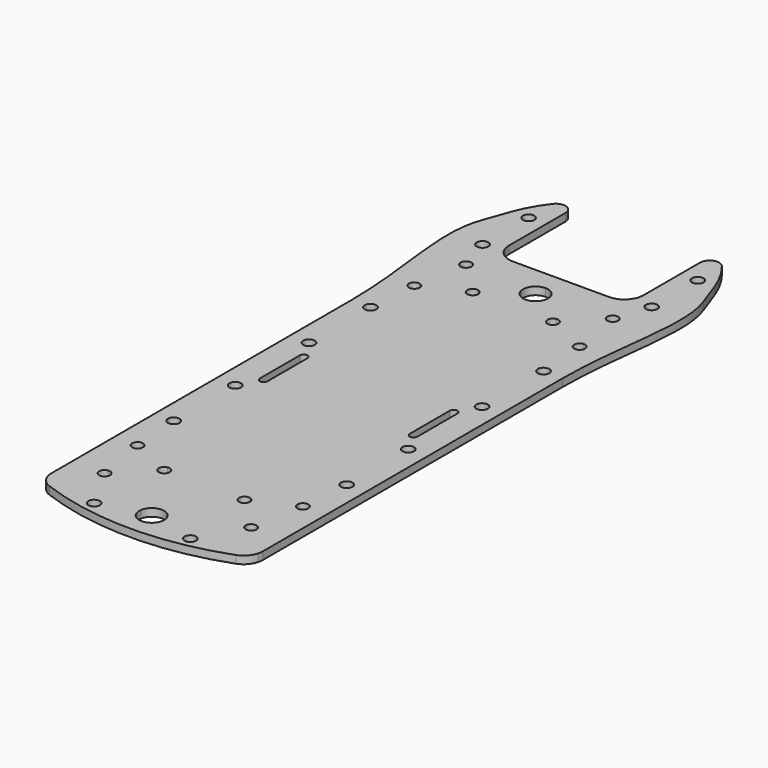
from build123d import *

# Parameters (mm, degrees)
F0_R     = 1.5
F1_DEPTH = 2


with BuildPart() as f1:
    # F0 (on Top) → F1 (new body)
    with BuildSketch(Plane.XY):
        with BuildLine():
            Line((-8.8704294452, 128.4075311041), (-8.8704294452, 175.1948396463))
            Line((-8.8704294452, 175.1948396463), (-18.8704294452, 175.1948396463))
            Line((-18.8704294452, 175.1948396463), (-18.8704294452, 167.1948396463))
            ThreePointArc((-18.8704294452, 167.1948396463), (-20.3348955393, 163.6593057403), (-23.8704294452, 162.1948396463))
            Line((-23.8704294452, 162.1948396463), (-36.3704294452, 162.1948396463))
            Line((-36.3704294452, 162.1948396463), (-48.8704294452, 162.1948396463))
            ThreePointArc((-48.8704294452, 162.1948396463), (-52.4059633511, 163.6593057403), (-53.8704294452, 167.1948396463))
            Line((-53.8704294452, 167.1948396463), (-53.8704294452, 175.1948396463))
            Line((-53.8704294452, 175.1948396463), (-63.8704294452, 175.1948396463))
            Line((-63.8704294452, 175.1948396463), (-63.8704294452, 128.4075311041))
            Line((-63.8704294452, 128.4075311041), (-63.8704294452, 96.4075311041))
            Line((-63.8704294452, 96.4075311041), (-63.8704294452, 30.8854374713))
            ThreePointArc((-63.8704294452, 30.8854374713), (-63.8295813855, 30.2476192896), (-63.707704632, 29.6202225619))
            Line((-63.707704632, 29.6202225619), (-39.5812329368, 29.6202225619))
            ThreePointArc((-39.5812329368, 29.6202225619), (-36.3704294452, 32.3669920596), (-33.1596259536, 29.6202225619))
            Line((-33.1596259536, 29.6202225619), (-9.0331542584, 29.6202225619))
            ThreePointArc((-9.0331542584, 29.6202225619), (-8.9112775049, 30.2476192896), (-8.8704294452, 30.8854374713))
            Line((-8.8704294452, 30.8854374713), (-8.8704294452, 128.4075311041))
        make_face()
        with Locations((-58.8704294452, 64.4075311041)):
            Circle(F0_R, mode=Mode.SUBTRACT)
        with BuildLine():
            ThreePointArc((-57.622980792, 50.004180056), (-59.0377211083, 52.2248775259), (-56.4670783971, 51.6549797573))
            Line((-56.4670783971, 51.6549797573), (-49.4257029631, 52.8965642276))
            ThreePointArc((-49.4257029631, 52.8965642276), (-48.1465488485, 54.5635903255), (-46.5973519151, 53.1440128808))
            ThreePointArc((-46.5973519151, 53.1440128808), (-46.9307385836, 52.228040537), (-47.7749032619, 51.7406618327))
            Line((-47.7749032619, 51.7406618327), (-47.0542633246, 47.6537096577))
            ThreePointArc((-47.0542633246, 47.6537096577), (-45.8908423276, 47.3419719411), (-45.3818146714, 46.2503586097))
            ThreePointArc((-45.3818146714, 46.2503586097), (-45.71520134, 45.3343862659), (-46.5593660182, 44.8470075616))
            Line((-46.5593660182, 44.8470075616), (-45.8387260809, 40.7600553866))
            ThreePointArc((-45.8387260809, 40.7600553866), (-44.6753050839, 40.44831767), (-44.1662774277, 39.3567043386))
            ThreePointArc((-44.1662774277, 39.3567043386), (-45.4670804943, 37.9371268938), (-46.9946284758, 39.1092556854))
            Line((-46.9946284758, 39.1092556854), (-54.0360039098, 37.8676712151))
            ThreePointArc((-54.0360039098, 37.8676712151), (-54.0197775131, 37.7444194953), (-54.0143549579, 37.6202225619))
            ThreePointArc((-54.0143549579, 37.6202225619), (-56.3553273017, 36.5286092305), (-55.686803611, 39.02357361))
            Line((-55.686803611, 39.02357361), (-57.622980792, 50.004180056))
        make_face(mode=Mode.SUBTRACT)
        with Locations((-58.8704294452, 84.4075311041)):
            Circle(F0_R, mode=Mode.SUBTRACT)
        with BuildLine():
            ThreePointArc((-56.8704294452, 102.9075311041), (-55.8704294452, 103.9075311041), (-54.8704294452, 102.9075311041))
            Line((-54.8704294452, 102.9075311041), (-54.8704294452, 89.9075311041))
            ThreePointArc((-54.8704294452, 89.9075311041), (-55.8704294452, 88.9075311041), (-56.8704294452, 89.9075311041))
            Line((-56.8704294452, 89.9075311041), (-56.8704294452, 102.9075311041))
        make_face(mode=Mode.SUBTRACT)
        with Locations((-58.8704294452, 108.4075311041)):
            Circle(F0_R, mode=Mode.SUBTRACT)
        Polygon((-54.3704294452, 96.4075311041), (-54.3704294452, 114.4075311041), (-18.3704294452, 114.4075311041), (-18.3704294452, 78.4075311041), (-54.3704294452, 78.4075311041), align=None, mode=Mode.SUBTRACT)
        with BuildLine():
            ThreePointArc((-23.2935069753, 53.1440128808), (-23.2989295305, 53.0198159473), (-23.3151559273, 52.8965642276))
            Line((-23.3151559273, 52.8965642276), (-16.2737804932, 51.6549797573))
            ThreePointArc((-16.2737804932, 51.6549797573), (-14.7462325118, 52.8271085489), (-13.4454294452, 51.4075311041))
            ThreePointArc((-13.4454294452, 51.4075311041), (-13.9544571014, 50.3159177726), (-15.1178780984, 50.004180056))
            Line((-15.1178780984, 50.004180056), (-17.0540552794, 39.02357361))
            ThreePointArc((-17.0540552794, 39.02357361), (-16.2098906011, 38.5361949057), (-15.8765039325, 37.6202225619))
            ThreePointArc((-15.8765039325, 37.6202225619), (-17.4257008659, 36.2006451171), (-18.7048549806, 37.8676712151))
            Line((-18.7048549806, 37.8676712151), (-25.7462304146, 39.1092556854))
            ThreePointArc((-25.7462304146, 39.1092556854), (-28.3168731258, 38.5393579168), (-26.9021328095, 40.7600553866))
            Line((-26.9021328095, 40.7600553866), (-26.1814928722, 44.8470075616))
            ThreePointArc((-26.1814928722, 44.8470075616), (-27.337395267, 46.4978072628), (-25.6865955658, 47.6537096577))
            Line((-25.6865955658, 47.6537096577), (-24.9659556285, 51.7406618327))
            ThreePointArc((-24.9659556285, 51.7406618327), (-25.6344793191, 54.2356262122), (-23.2935069753, 53.1440128808))
        make_face(mode=Mode.SUBTRACT)
        with Locations((-13.8704294452, 64.4075311041)):
            Circle(F0_R, mode=Mode.SUBTRACT)
        with Locations((-13.8704294452, 84.4075311041)):
            Circle(F0_R, mode=Mode.SUBTRACT)
        with BuildLine():
            ThreePointArc((-17.8704294452, 102.9075311041), (-16.8704294452, 103.9075311041), (-15.8704294452, 102.9075311041))
            Line((-15.8704294452, 102.9075311041), (-15.8704294452, 89.9075311041))
            ThreePointArc((-15.8704294452, 89.9075311041), (-16.8704294452, 88.9075311041), (-17.8704294452, 89.9075311041))
            Line((-17.8704294452, 89.9075311041), (-17.8704294452, 102.9075311041))
        make_face(mode=Mode.SUBTRACT)
        with Locations((-13.8704294452, 108.4075311041)):
            Circle(F0_R, mode=Mode.SUBTRACT)
        with Locations((-58.8704294452, 128.4075311041)):
            Circle(F0_R, mode=Mode.SUBTRACT)
        with BuildLine():
            Line((-54.0360039098, 154.9473909931), (-46.9946284758, 153.7058065228))
            ThreePointArc((-46.9946284758, 153.7058065228), (-45.4670804943, 154.8779353144), (-44.1662774277, 153.4583578696))
            ThreePointArc((-44.1662774277, 153.4583578696), (-44.6753050839, 152.3667445381), (-45.8387260809, 152.0550068215))
            Line((-45.8387260809, 152.0550068215), (-46.5593660182, 147.9680546465))
            ThreePointArc((-46.5593660182, 147.9680546465), (-45.71520134, 147.4806759423), (-45.3818146714, 146.5647035985))
            ThreePointArc((-45.3818146714, 146.5647035985), (-45.8908423276, 145.4730902671), (-47.0542633246, 145.1613525505))
            Line((-47.0542633246, 145.1613525505), (-47.7749032619, 141.0744003755))
            ThreePointArc((-47.7749032619, 141.0744003755), (-46.9307385836, 140.5870216712), (-46.5973519151, 139.6710493274))
            ThreePointArc((-46.5973519151, 139.6710493274), (-48.1465488485, 138.2514718826), (-49.4257029631, 139.9184979806))
            Line((-49.4257029631, 139.9184979806), (-56.4670783971, 141.1600824509))
            ThreePointArc((-56.4670783971, 141.1600824509), (-59.0377211083, 140.5901846823), (-57.622980792, 142.8108821521))
            Line((-57.622980792, 142.8108821521), (-55.686803611, 153.7914885982))
            ThreePointArc((-55.686803611, 153.7914885982), (-56.3553273017, 156.2864529777), (-54.0143549579, 155.1948396463))
            ThreePointArc((-54.0143549579, 155.1948396463), (-54.0197775131, 155.0706427128), (-54.0360039098, 154.9473909931))
        make_face(mode=Mode.SUBTRACT)
        with Locations((-58.3704294452, 164.1948396463)):
            Circle(F0_R, mode=Mode.SUBTRACT)
        with BuildLine():
            ThreePointArc((-36.3704294452, 150.6948396463), (-39.6204294452, 153.9448396463), (-36.3704294452, 157.1948396463))
            ThreePointArc((-36.3704294452, 157.1948396463), (-34.0723324063, 156.2429366851), (-33.1204294452, 153.9448396463))
            ThreePointArc((-33.1204294452, 153.9448396463), (-34.0723324063, 151.6467426074), (-36.3704294452, 150.6948396463))
        make_face(mode=Mode.SUBTRACT)
        with BuildLine():
            ThreePointArc((-26.9021328095, 152.0550068215), (-28.3168731258, 154.2757042914), (-25.7462304146, 153.7058065228))
            Line((-25.7462304146, 153.7058065228), (-18.7048549806, 154.9473909931))
            ThreePointArc((-18.7048549806, 154.9473909931), (-17.4257008659, 156.614417091), (-15.8765039325, 155.1948396463))
            ThreePointArc((-15.8765039325, 155.1948396463), (-16.2098906011, 154.2788673025), (-17.0540552794, 153.7914885982))
            Line((-17.0540552794, 153.7914885982), (-15.1178780984, 142.8108821521))
            ThreePointArc((-15.1178780984, 142.8108821521), (-13.9544571014, 142.4991444355), (-13.4454294452, 141.4075311041))
            ThreePointArc((-13.4454294452, 141.4075311041), (-14.7462325118, 139.9879536593), (-16.2737804932, 141.1600824509))
            Line((-16.2737804932, 141.1600824509), (-23.3151559273, 139.9184979806))
            ThreePointArc((-23.3151559273, 139.9184979806), (-23.2989295305, 139.7952462608), (-23.2935069753, 139.6710493274))
            ThreePointArc((-23.2935069753, 139.6710493274), (-25.6344793191, 138.579435996), (-24.9659556285, 141.0744003755))
            Line((-24.9659556285, 141.0744003755), (-25.6865955658, 145.1613525505))
            ThreePointArc((-25.6865955658, 145.1613525505), (-27.337395267, 146.3172549453), (-26.1814928722, 147.9680546465))
            Line((-26.1814928722, 147.9680546465), (-26.9021328095, 152.0550068215))
        make_face(mode=Mode.SUBTRACT)
        with Locations((-13.8704294452, 128.4075311041)):
            Circle(F0_R, mode=Mode.SUBTRACT)
        with Locations((-14.3704294452, 164.1948396463)):
            Circle(F0_R, mode=Mode.SUBTRACT)
        with BuildLine():
            ThreePointArc((-45.8387260809, 152.0550068215), (-46.7585690908, 152.6410114478), (-46.9946284758, 153.7058065228))
            Line((-46.9946284758, 153.7058065228), (-54.0360039098, 154.9473909931))
            ThreePointArc((-54.0360039098, 154.9473909931), (-54.6220085361, 154.0275479831), (-55.686803611, 153.7914885982))
            Line((-55.686803611, 153.7914885982), (-57.622980792, 142.8108821521))
            ThreePointArc((-57.622980792, 142.8108821521), (-56.7788161137, 142.3235034479), (-56.4454294452, 141.4075311041))
            ThreePointArc((-56.4454294452, 141.4075311041), (-56.4508520004, 141.2833341707), (-56.4670783971, 141.1600824509))
            Line((-56.4670783971, 141.1600824509), (-49.4257029631, 139.9184979806))
            ThreePointArc((-49.4257029631, 139.9184979806), (-48.8396983369, 140.8383409905), (-47.7749032619, 141.0744003755))
            Line((-47.7749032619, 141.0744003755), (-47.0542633246, 145.1613525505))
            ThreePointArc((-47.0542633246, 145.1613525505), (-48.2101657194, 146.8121522517), (-46.5593660182, 147.9680546465))
            Line((-46.5593660182, 147.9680546465), (-45.8387260809, 152.0550068215))
        make_face()
        with BuildLine():
            Line((-18.7048549806, 154.9473909931), (-25.7462304146, 153.7058065228))
            ThreePointArc((-25.7462304146, 153.7058065228), (-25.7300040179, 153.582554803), (-25.7245814627, 153.4583578696))
            ThreePointArc((-25.7245814627, 153.4583578696), (-26.0579681312, 152.5423855258), (-26.9021328095, 152.0550068215))
            Line((-26.9021328095, 152.0550068215), (-26.1814928722, 147.9680546465))
            ThreePointArc((-26.1814928722, 147.9680546465), (-25.0180718752, 147.6563169299), (-24.509044219, 146.5647035985))
            ThreePointArc((-24.509044219, 146.5647035985), (-24.8424308875, 145.6487312547), (-25.6865955658, 145.1613525505))
            Line((-25.6865955658, 145.1613525505), (-24.9659556285, 141.0744003755))
            ThreePointArc((-24.9659556285, 141.0744003755), (-23.9011605535, 140.8383409905), (-23.3151559273, 139.9184979806))
            Line((-23.3151559273, 139.9184979806), (-16.2737804932, 141.1600824509))
            ThreePointArc((-16.2737804932, 141.1600824509), (-16.0377211083, 142.2248775259), (-15.1178780984, 142.8108821521))
            Line((-15.1178780984, 142.8108821521), (-17.0540552794, 153.7914885982))
            ThreePointArc((-17.0540552794, 153.7914885982), (-18.1188503543, 154.0275479831), (-18.7048549806, 154.9473909931))
        make_face()
        Polygon((-18.3704294452, 114.4075311041), (-54.3704294452, 114.4075311041), (-54.3704294452, 96.4075311041), (-54.3704294452, 78.4075311041), (-18.3704294452, 78.4075311041), align=None)
        with Locations((-51.3704294452, 81.4075311041)):
            Circle(F0_R, mode=Mode.SUBTRACT)
        with Locations((-21.3704294452, 81.4075311041)):
            Circle(F0_R, mode=Mode.SUBTRACT)
        with Locations((-51.3704294452, 111.4075311041)):
            Circle(F0_R, mode=Mode.SUBTRACT)
        with Locations((-21.3704294452, 111.4075311041)):
            Circle(F0_R, mode=Mode.SUBTRACT)
        with BuildLine():
            Line((-49.4257029631, 52.8965642276), (-56.4670783971, 51.6549797573))
            ThreePointArc((-56.4670783971, 51.6549797573), (-56.4508520004, 51.5317280375), (-56.4454294452, 51.4075311041))
            ThreePointArc((-56.4454294452, 51.4075311041), (-56.7788161137, 50.4915587603), (-57.622980792, 50.004180056))
            Line((-57.622980792, 50.004180056), (-55.686803611, 39.02357361))
            ThreePointArc((-55.686803611, 39.02357361), (-54.6220085361, 38.787514225), (-54.0360039098, 37.8676712151))
            Line((-54.0360039098, 37.8676712151), (-46.9946284758, 39.1092556854))
            ThreePointArc((-46.9946284758, 39.1092556854), (-46.7585690908, 40.1740507604), (-45.8387260809, 40.7600553866))
            Line((-45.8387260809, 40.7600553866), (-46.5593660182, 44.8470075616))
            ThreePointArc((-46.5593660182, 44.8470075616), (-48.2101657194, 46.0029099565), (-47.0542633246, 47.6537096577))
            Line((-47.0542633246, 47.6537096577), (-47.7749032619, 51.7406618327))
            ThreePointArc((-47.7749032619, 51.7406618327), (-48.8396983369, 51.9767212176), (-49.4257029631, 52.8965642276))
        make_face()
        with BuildLine():
            Line((-16.2737804932, 51.6549797573), (-23.3151559273, 52.8965642276))
            ThreePointArc((-23.3151559273, 52.8965642276), (-23.9011605535, 51.9767212176), (-24.9659556285, 51.7406618327))
            Line((-24.9659556285, 51.7406618327), (-25.6865955658, 47.6537096577))
            ThreePointArc((-25.6865955658, 47.6537096577), (-24.8424308875, 47.1663309535), (-24.509044219, 46.2503586097))
            ThreePointArc((-24.509044219, 46.2503586097), (-25.0180718752, 45.1587452782), (-26.1814928722, 44.8470075616))
            Line((-26.1814928722, 44.8470075616), (-26.9021328095, 40.7600553866))
            ThreePointArc((-26.9021328095, 40.7600553866), (-26.0579681312, 40.2726766824), (-25.7245814627, 39.3567043386))
            ThreePointArc((-25.7245814627, 39.3567043386), (-25.7300040179, 39.2325074052), (-25.7462304146, 39.1092556854))
            Line((-25.7462304146, 39.1092556854), (-18.7048549806, 37.8676712151))
            ThreePointArc((-18.7048549806, 37.8676712151), (-18.1188503543, 38.787514225), (-17.0540552794, 39.02357361))
            Line((-17.0540552794, 39.02357361), (-15.1178780984, 50.004180056))
            ThreePointArc((-15.1178780984, 50.004180056), (-16.0377211083, 50.5901846823), (-16.2737804932, 51.6549797573))
        make_face()
        with Locations((-51.3704294452, 111.4075311041)):
            Circle(F0_R)
        with Locations((-21.3704294452, 111.4075311041)):
            Circle(F0_R)
        with Locations((-21.3704294452, 81.4075311041)):
            Circle(F0_R)
        with Locations((-51.3704294452, 81.4075311041)):
            Circle(F0_R)
        with BuildLine():
            Line((-46.9946284758, 153.7058065228), (-45.5912774277, 153.4583578696))
            Line((-45.5912774277, 153.4583578696), (-45.8387260809, 152.0550068215))
            ThreePointArc((-45.8387260809, 152.0550068215), (-44.6753050839, 152.3667445381), (-44.1662774277, 153.4583578696))
            ThreePointArc((-44.1662774277, 153.4583578696), (-45.4670804943, 154.8779353144), (-46.9946284758, 153.7058065228))
        make_face()
        with BuildLine():
            ThreePointArc((-46.5973519151, 139.6710493274), (-46.9307385836, 140.5870216712), (-47.7749032619, 141.0744003755))
            Line((-47.7749032619, 141.0744003755), (-48.0223519151, 139.6710493274))
            Line((-48.0223519151, 139.6710493274), (-49.4257029631, 139.9184979806))
            ThreePointArc((-49.4257029631, 139.9184979806), (-48.1465488485, 138.2514718826), (-46.5973519151, 139.6710493274))
        make_face()
        with BuildLine():
            Line((-45.8387260809, 152.0550068215), (-45.5912774277, 153.4583578696))
            Line((-45.5912774277, 153.4583578696), (-46.9946284758, 153.7058065228))
            ThreePointArc((-46.9946284758, 153.7058065228), (-46.7585690908, 152.6410114478), (-45.8387260809, 152.0550068215))
        make_face()
        with BuildLine():
            Line((-48.0223519151, 139.6710493274), (-47.7749032619, 141.0744003755))
            ThreePointArc((-47.7749032619, 141.0744003755), (-48.8396983369, 140.8383409905), (-49.4257029631, 139.9184979806))
            Line((-49.4257029631, 139.9184979806), (-48.0223519151, 139.6710493274))
        make_face()
        with BuildLine():
            Line((-26.9021328095, 152.0550068215), (-27.1495814626, 153.4583578696))
            Line((-27.1495814627, 153.4583578696), (-25.7462304146, 153.7058065228))
            ThreePointArc((-25.7462304146, 153.7058065228), (-28.3168731258, 154.2757042914), (-26.9021328095, 152.0550068215))
        make_face()
        with BuildLine():
            Line((-24.7185069753, 139.6710493274), (-24.9659556285, 141.0744003755))
            ThreePointArc((-24.9659556285, 141.0744003755), (-25.6344793191, 138.579435996), (-23.2935069753, 139.6710493274))
            ThreePointArc((-23.2935069753, 139.6710493274), (-23.2989295305, 139.7952462608), (-23.3151559273, 139.9184979806))
            Line((-23.3151559273, 139.9184979806), (-24.7185069753, 139.6710493274))
        make_face()
        with BuildLine():
            ThreePointArc((-23.3151559273, 139.9184979806), (-23.9011605535, 140.8383409905), (-24.9659556285, 141.0744003755))
            Line((-24.9659556285, 141.0744003755), (-24.7185069753, 139.6710493274))
            Line((-24.7185069753, 139.6710493274), (-23.3151559273, 139.9184979806))
        make_face()
        with BuildLine():
            Line((-25.7462304146, 153.7058065228), (-27.1495814627, 153.4583578696))
            Line((-27.1495814626, 153.4583578696), (-26.9021328095, 152.0550068215))
            ThreePointArc((-26.9021328095, 152.0550068215), (-26.0579681312, 152.5423855258), (-25.7245814627, 153.4583578696))
            ThreePointArc((-25.7245814627, 153.4583578696), (-25.7300040179, 153.582554803), (-25.7462304146, 153.7058065228))
        make_face()
        with BuildLine():
            Line((-24.9659556285, 51.7406618327), (-24.7185069753, 53.1440128808))
            Line((-24.7185069753, 53.1440128808), (-23.3151559273, 52.8965642276))
            ThreePointArc((-23.3151559273, 52.8965642276), (-23.2989295305, 53.0198159473), (-23.2935069753, 53.1440128808))
            ThreePointArc((-23.2935069753, 53.1440128808), (-25.6344793191, 54.2356262122), (-24.9659556285, 51.7406618327))
        make_face()
        with BuildLine():
            Line((-23.3151559273, 52.8965642276), (-24.7185069753, 53.1440128808))
            Line((-24.7185069753, 53.1440128808), (-24.9659556285, 51.7406618327))
            ThreePointArc((-24.9659556285, 51.7406618327), (-23.9011605535, 51.9767212176), (-23.3151559273, 52.8965642276))
        make_face()
        with BuildLine():
            Line((-27.1495814627, 39.3567043386), (-26.9021328095, 40.7600553866))
            ThreePointArc((-26.9021328095, 40.7600553866), (-28.3168731258, 38.5393579168), (-25.7462304146, 39.1092556854))
            Line((-25.7462304146, 39.1092556854), (-27.1495814627, 39.3567043386))
        make_face()
        with BuildLine():
            ThreePointArc((-25.7245814627, 39.3567043386), (-26.0579681312, 40.2726766824), (-26.9021328095, 40.7600553866))
            Line((-26.9021328095, 40.7600553866), (-27.1495814627, 39.3567043386))
            Line((-27.1495814627, 39.3567043386), (-25.7462304146, 39.1092556854))
            ThreePointArc((-25.7462304146, 39.1092556854), (-25.7300040179, 39.2325074052), (-25.7245814627, 39.3567043386))
        make_face()
        with BuildLine():
            ThreePointArc((-46.5973519151, 53.1440128808), (-48.1465488485, 54.5635903255), (-49.4257029631, 52.8965642276))
            Line((-49.4257029631, 52.8965642276), (-48.0223519151, 53.1440128808))
            Line((-48.0223519151, 53.1440128808), (-47.7749032619, 51.7406618327))
            ThreePointArc((-47.7749032619, 51.7406618327), (-46.9307385836, 52.228040537), (-46.5973519151, 53.1440128808))
        make_face()
        with BuildLine():
            Line((-48.0223519151, 53.1440128808), (-49.4257029631, 52.8965642276))
            ThreePointArc((-49.4257029631, 52.8965642276), (-48.8396983369, 51.9767212176), (-47.7749032619, 51.7406618327))
            Line((-47.7749032619, 51.7406618327), (-48.0223519151, 53.1440128808))
        make_face()
        with BuildLine():
            Line((-45.5912774277, 39.3567043386), (-46.9946284758, 39.1092556854))
            ThreePointArc((-46.9946284758, 39.1092556854), (-45.4670804943, 37.9371268938), (-44.1662774277, 39.3567043386))
            ThreePointArc((-44.1662774277, 39.3567043386), (-44.6753050839, 40.44831767), (-45.8387260809, 40.7600553866))
            Line((-45.8387260809, 40.7600553866), (-45.5912774277, 39.3567043386))
        make_face()
        with BuildLine():
            ThreePointArc((-45.8387260809, 40.7600553866), (-46.7585690908, 40.1740507604), (-46.9946284758, 39.1092556854))
            Line((-46.9946284758, 39.1092556854), (-45.5912774277, 39.3567043386))
            Line((-45.5912774277, 39.3567043386), (-45.8387260809, 40.7600553866))
        make_face()
        with BuildLine():
            Line((-63.8704294452, 175.1948396463), (-53.8704294452, 175.1948396463))
            Line((-53.8704294452, 175.1948396463), (-53.8704294452, 185.547974161))
            ThreePointArc((-53.8704294452, 185.547974161), (-57.1946550408, 183.1877512547), (-58.3269511792, 187.1042590657))
            ThreePointArc((-58.3269511792, 187.1042590657), (-60.8790850595, 183.2935873505), (-62.7762568993, 179.1180220866))
            ThreePointArc((-62.7762568993, 179.1180220866), (-63.394629683, 177.1763126191), (-63.8704294452, 175.1948396463))
        make_face()
        with Locations((-58.3704294452, 179.1948396463)):
            Circle(F0_R, mode=Mode.SUBTRACT)
        with BuildLine():
            ThreePointArc((-58.3269511792, 187.1042590657), (-57.1946550408, 183.1877512547), (-53.8704294452, 185.547974161))
            ThreePointArc((-53.8704294452, 185.547974161), (-55.5462038495, 187.9081970673), (-58.3269511792, 187.1042590657))
        make_face()
        with BuildLine():
            Line((-18.8704294452, 175.1948396463), (-8.8704294452, 175.1948396463))
            ThreePointArc((-8.8704294452, 175.1948396463), (-9.3462304633, 177.176317122), (-9.9646051499, 179.1180308864))
            ThreePointArc((-9.9646051499, 179.1180308864), (-11.8617768432, 183.2935927574), (-14.4139095969, 187.1042614363))
            ThreePointArc((-14.4139095969, 187.1042614363), (-14.0102070382, 186.3722011865), (-13.8704294452, 185.547974161))
            ThreePointArc((-13.8704294452, 185.547974161), (-16.3704294452, 183.047974161), (-18.8704294452, 185.547974161))
            Line((-18.8704294452, 185.547974161), (-18.8704294452, 175.1948396463))
        make_face()
        with Locations((-14.3704294452, 179.1948396463)):
            Circle(F0_R, mode=Mode.SUBTRACT)
        with BuildLine():
            ThreePointArc((-14.4139095969, 187.1042614363), (-17.1946564707, 187.908196568), (-18.8704294452, 185.547974161))
            ThreePointArc((-18.8704294452, 185.547974161), (-16.3704294452, 183.047974161), (-13.8704294452, 185.547974161))
            ThreePointArc((-13.8704294452, 185.547974161), (-14.0102070382, 186.3722011865), (-14.4139095969, 187.1042614363))
        make_face()
        with BuildLine():
            ThreePointArc((-12.1396602144, 26.1945486568), (-10.1665649372, 27.5266597612), (-9.0331542584, 29.6202225619))
            Line((-9.0331542584, 29.6202225619), (-33.1596259536, 29.6202225619))
            ThreePointArc((-33.1596259536, 29.6202225619), (-33.1302433898, 29.3693694084), (-33.1204294452, 29.1169920596))
            ThreePointArc((-33.1204294452, 29.1169920596), (-36.622806794, 25.8768060041), (-39.5812329368, 29.6202225619))
            Line((-39.5812329368, 29.6202225619), (-63.707704632, 29.6202225619))
            ThreePointArc((-63.707704632, 29.6202225619), (-62.5742939532, 27.5266597612), (-60.601198676, 26.1945486568))
            ThreePointArc((-60.601198676, 26.1945486568), (-36.3704294452, 21.8669920596), (-12.1396602144, 26.1945486568))
        make_face()
        with Locations((-48.8704294452, 26.043364083)):
            Circle(F0_R, mode=Mode.SUBTRACT)
        with Locations((-23.8704294452, 26.043364083)):
            Circle(F0_R, mode=Mode.SUBTRACT)
        with BuildLine():
            Line((-63.8704294452, 128.4075311041), (-63.8704294452, 175.1948396463))
            add(Edge.make_bspline(
                [(-63.8704294452, 175.1948396463), (-64.4028782792, 174.307424923), (-64.8408265262, 173.3665598129), (-65.1968533682, 172.3747424138)],
                knots=[0, 0, 0, 0, 4.1519746464, 4.1519746464, 4.1519746464, 4.1519746464], degree=3))
            add(Edge.make_bspline(
                [(-65.1968533682, 172.3747424138), (-68.8527820707, 162.1900785909), (-63.8704294452, 146.6327016575), (-63.8704294452, 128.4075311041)],
                knots=[4.1519746464, 4.1519746464, 4.1519746464, 4.1519746464, 46.7873085422, 46.7873085422, 46.7873085422, 46.7873085422], degree=3))
        make_face()
        with BuildLine():
            add(Edge.make_bspline(
                [(-8.8704294452, 175.1948396463), (-8.3379810252, 174.307425613), (-7.9000330453, 173.3665612761), (-7.5440063528, 172.3747447275)],
                knots=[0, 0, 0, 0, 4.1519714179, 4.1519714179, 4.1519714179, 4.1519714179], degree=3))
            Line((-8.8704294452, 175.1948396463), (-8.8704294452, 128.4075311041))
            add(Edge.make_bspline(
                [(-7.5440063528, 172.3747447275), (-3.8880760651, 162.1900809471), (-8.8704294452, 146.6327030376), (-8.8704294452, 128.4075311041)],
                knots=[4.1519714179, 4.1519714179, 4.1519714179, 4.1519714179, 46.7873085422, 46.7873085422, 46.7873085422, 46.7873085422], degree=3))
        make_face()
        with BuildLine():
            add(Edge.make_bspline(
                [(-63.8704294452, 175.1948396463), (-64.4028782792, 174.307424923), (-64.8408265262, 173.3665598129), (-65.1968533682, 172.3747424138)],
                knots=[0, 0, 0, 0, 4.1519746464, 4.1519746464, 4.1519746464, 4.1519746464], degree=3))
            ThreePointArc((-63.8704294452, 175.1948396463), (-63.394629683, 177.1763126191), (-62.7762568993, 179.1180220866))
            Line((-62.7762568993, 179.1180220866), (-65.1968533682, 172.3747424138))
        make_face()
        with BuildLine():
            ThreePointArc((-9.9646051499, 179.1180308864), (-9.3462304633, 177.176317122), (-8.8704294452, 175.1948396463))
            add(Edge.make_bspline(
                [(-8.8704294452, 175.1948396463), (-8.3379810252, 174.307425613), (-7.9000330453, 173.3665612761), (-7.5440063528, 172.3747447275)],
                knots=[0, 0, 0, 0, 4.1519714179, 4.1519714179, 4.1519714179, 4.1519714179], degree=3))
            Line((-7.5440063528, 172.3747447275), (-9.9646051499, 179.1180308864))
        make_face()
    extrude(amount=F1_DEPTH)


solid = f1.part
